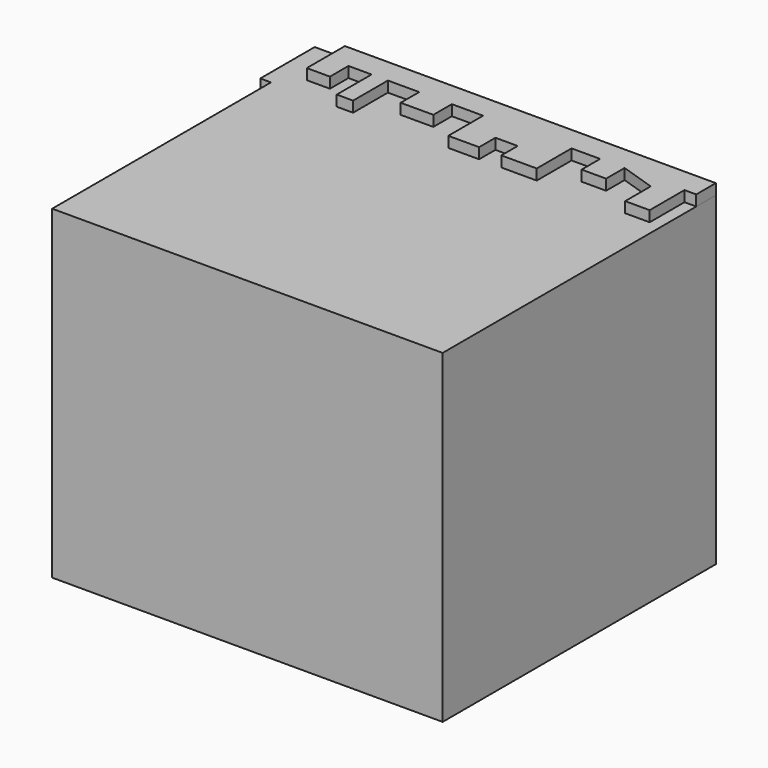
from build123d import *

# Parameters (mm, degrees)
F0_W     = 83.653443
F0_H     = 73.160328
F1_DEPTH = 69.596
F3_DEPTH = 2.286
F5_DEPTH = 2.286


with BuildPart() as f1:
    # F0 (on Top) → F1 (new body)
    with BuildSketch(Plane.XY):
        with Locations((-2.769016, 10.784589)):
            Rectangle(F0_W, F0_H)
    extrude(amount=F1_DEPTH)

    # F2 (on face) → F3 (join)
    with BuildSketch(Plane(origin=(-44.595737, 0, 0), x_dir=(0, -1, 0), z_dir=(-1, 0, 0))):
        Polygon((-47.364753, 0), (-38.037542, 0), (-38.037542, 8.452787), (-43.867048, 8.452787), (-43.867048, 11.950491), (-32.790981, 11.950491), (-32.790981, 16.6141), (-38.037542, 16.6141), (-38.037542, 22.152131), (-43.867048, 22.152131), (-43.867048, 24.483934), (-38.037542, 24.483934), (-38.037542, 30.021966), (-29.584754, 30.021966), (-29.584754, 35.851479), (-38.037542, 35.851479), (-38.037542, 41.098036), (-43.867048, 41.098036), (-43.867048, 46.344589), (-32.790981, 46.344589), (-32.790981, 53.631473), (-38.037542, 53.631473), (-38.037542, 60.626887), (-43.867048, 60.626887), (-43.867048, 65.873444), (-32.790981, 65.873444), (-32.790981, 69.596), (-47.364753, 69.596), align=None)
    extrude(amount=F3_DEPTH)

    # F4 (on face) → F5 (join)
    with BuildSketch(Plane.XY.offset(69.596)):
        Polygon((39.057706, 47.364753), (-40.410984, 47.364753), (-40.410984, 37.163116), (-35.455901, 37.163116), (-35.455901, 42.118195), (-30.50082, 42.118195), (-30.50082, 32.790981), (-27.003115, 32.790981), (-27.003115, 42.118195), (-20.299181, 42.118195), (-20.299181, 37.163116), (-13.303772, 37.163116), (-13.303772, 42.118195), (-6.599837, 42.118195), (-6.599837, 32.790981), (0, 32.790981), (0, 37.163116), (4.767703, 37.163116), (4.767703, 32.790981), (12.346066, 32.790981), (12.346066, 42.118195), (18.467048, 42.118195), (18.467048, 37.163116), (23.713607, 37.163116), (23.713607, 42.118195), (31.291965, 39.640656), (31.291965, 32.790981), (36.538523, 32.790981), (36.538523, 42.118195), (39.057706, 42.118195), align=None)
    extrude(amount=F5_DEPTH)


solid = f1.part
